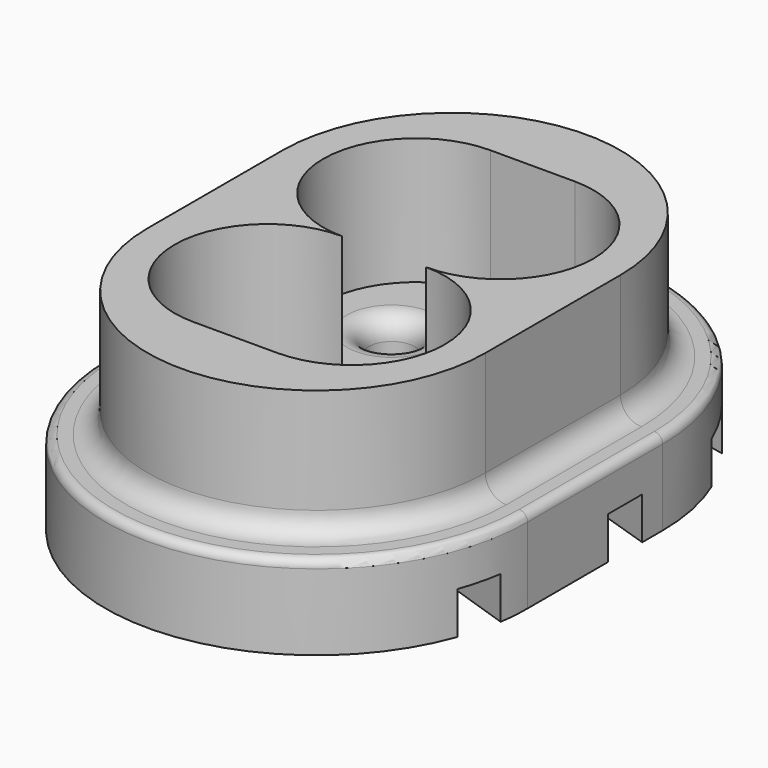
from build123d import *

# Parameters (mm, degrees)
PAD_DEPTH       = 2
PAD001_DEPTH    = 3
POCKET_DEPTH    = 3
SKETCH003_R     = 0.55
POCKET001_DEPTH = 5
FILLET_R        = 0.5
FILLET001_R     = 0.5
POCKET002_DEPTH = 1
FILLET002_R     = 0.2


with BuildPart() as part:
    # Sketch → Pad (new body)
    with BuildSketch(Plane.XY):
        with BuildLine():
            ThreePointArc((5, 2), (0, 7), (-5, 2))
            Line((-5, 2), (-5, -2))
            ThreePointArc((-5, -2), (0, -7), (5, -2))
            Line((5, -2), (5, 2))
        make_face()
    extrude(amount=PAD_DEPTH)

    # Sketch001 (on Face6 of Pad) → Pad001 (join)
    with BuildSketch(Plane.XY.offset(2)):
        with BuildLine():
            ThreePointArc((4, 2), (0, 6), (-4, 2))
            Line((-4, 2), (-4, -2))
            ThreePointArc((-4, -2), (0, -6), (4, -2))
            Line((4, -2), (4, 2))
        make_face()
    extrude(amount=PAD001_DEPTH)

    # Sketch002 (on Face11 of Pad001) → Pocket (cut)
    with BuildSketch(Plane.XY.offset(5)):
        with BuildLine():
            ThreePointArc((-1, 4.4), (-3.2, 2.2), (-1, 0))
            ThreePointArc((-1, 0), (-3.2, -2.2), (-1, -4.4))
            Line((-1, -4.4), (1, -4.4))
            ThreePointArc((1, -4.4), (3.2, -2.2), (1, 0))
            ThreePointArc((1, 0), (3.2, 2.2), (1, 4.4))
            Line((1, 4.4), (-1, 4.4))
        make_face()
    extrude(amount=-POCKET_DEPTH, mode=Mode.SUBTRACT)

    # Sketch003 (on Face18 of Pocket) → Pocket001 (cut)
    with BuildSketch(Plane.XY.offset(2)):
        with Locations((-1.5, 2.1)):
            Circle(SKETCH003_R)
        with Locations((1.5, 2.1)):
            Circle(SKETCH003_R)
        with Locations((-1.5, -2.1)):
            Circle(SKETCH003_R)
        with Locations((1.5, -2.1)):
            Circle(SKETCH003_R)
    extrude(amount=-POCKET001_DEPTH, mode=Mode.SUBTRACT)

    # Fillet
    fillet_edges = [part.edges().sort_by_distance(p)[0] for p in [
        (-4, 0, 2),
        (0, -6, 2),
        (0, 6, 2),
        (4, 0, 2),
    ]]
    fillet(fillet_edges, radius=FILLET_R)

    # Fillet001
    fillet001_edges = [part.edges().sort_by_distance(p)[0] for p in [
        (0.95, 2.1, 2),
        (0.95, -2.1, 2),
        (-2.05, -2.1, 2),
        (-2.05, 2.1, 2),
    ]]
    fillet(fillet001_edges, radius=FILLET001_R)

    # Sketch004 (on Face3 of Fillet001) → Pocket002 (cut)
    with BuildSketch(Plane(origin=(0, 0, 0), x_dir=(1, 0, 0), z_dir=(0, 0, -1))):
        with BuildLine():
            ThreePointArc((-1.183894, 2.490737), (-1.888375, 2.619541), (-1.998982, 1.911974))
            Line((-1.998982, 1.911974), (1.366928, -2.578542))
            Line((1.366928, -2.578542), (5.969662, -1.078176))
            ThreePointArc((5.969662, -1.078176), (6.286424, -0.437034), (5.638226, -0.134973))
            Line((5.638226, -0.134973), (1.60334, -1.657034))
            Line((1.60334, -1.657034), (-1.183894, 2.490737))
        make_face()
        with BuildLine():
            ThreePointArc((1.349271, 2.577415), (1.034166, 1.944399), (1.667181, 1.629294))
            Line((1.667181, 1.629294), (5.847029, 3.03082))
            ThreePointArc((5.847029, 3.03082), (6.162134, 3.663835), (5.529119, 3.978941))
            Line((5.529119, 3.978941), (1.349271, 2.577415))
        make_face()
        with BuildLine():
            ThreePointArc((-1.093783, -1.809064), (-1.776443, -1.609188), (-1.968146, -2.294188))
            Line((-1.968146, -2.294188), (0.10206, -5.922524))
            Line((0.10206, -5.922524), (4.993273, -4.863674))
            ThreePointArc((4.993273, -4.863674), (5.376869, -4.272511), (4.788314, -3.884927))
            Line((4.788314, -3.884927), (0.494352, -4.753857))
            Line((0.494352, -4.753857), (-1.093783, -1.809064))
        make_face()
    extrude(amount=-POCKET002_DEPTH, mode=Mode.SUBTRACT)

    # Fillet002
    fillet002_edges = [part.edges().sort_by_distance(p)[0] for p in [
        (-4.5, 0, 2),
        (0, 6.5, 2),
        (0, -6.5, 2),
        (4.5, 0, 2),
        (0, 7, 2),
        (5, 0, 2),
        (-5, 0, 2),
        (0, -7, 2),
    ]]
    fillet(fillet002_edges, radius=FILLET002_R)


solid = part.part
